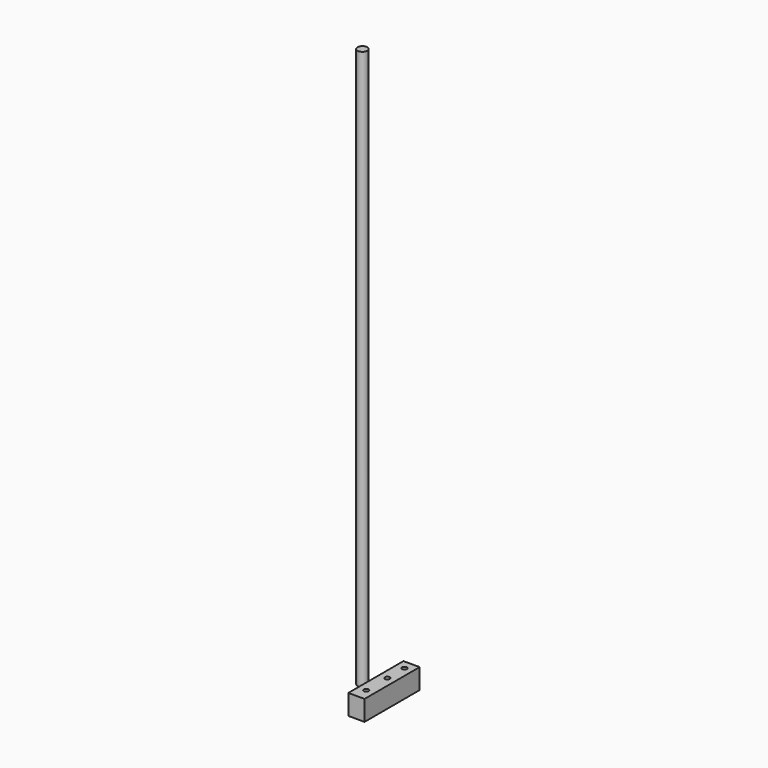
from build123d import *

# Parameters (mm, degrees)
F0_R           = 6
F1_DEPTH       = 690
F2_W           = 20
F2_H           = 85
F2_R           = 2.5
F2_R_2         = 6
F3_DEPTH       = 25
F4_D           = 6
F4_CBORE_D     = 12
F4_CBORE_DEPTH = 15


with BuildPart() as f1:
    # F0 (on Top) → F1 (new body)
    with BuildSketch(Plane.XY):
        with Locations((-96.1288660765, 38.541328162)):
            Circle(F0_R)
    extrude(amount=F1_DEPTH)


with BuildPart() as f3:
    # F2 (on Top) → F3 (new body)
    with BuildSketch(Plane.XY):
        with Locations((-55.6036287546, 21.1451533437)):
            Rectangle(F2_W, F2_H)
        with Locations((-55.6036287546, -6.2048761174)):
            Circle(F2_R, mode=Mode.SUBTRACT)
        with Locations((-55.6036287546, 26.2951238826)):
            Circle(F2_R, mode=Mode.SUBTRACT)
        with Locations((-55.6036287546, 52.6451533437)):
            Circle(F2_R_2, mode=Mode.SUBTRACT)
        with Locations((-55.6036287546, -6.2048761174)):
            Circle(F2_R)
        with Locations((-55.6036287546, 26.2951238826)):
            Circle(F2_R)
        with Locations((-55.6036287546, 52.6451533437)):
            Circle(F2_R_2)
    extrude(amount=F3_DEPTH)

    # F4 (through all)
    with Locations(Plane(origin=(0, 0, 0), x_dir=(1, 0, 0), z_dir=(0, 0, -1))):
        with Locations((-55.6036287546, -26.2951238826), (-55.6036287546, 6.2048761174), (-55.6036287546, -52.6451533437)):
            CounterBoreHole(F4_D / 2, F4_CBORE_D / 2, F4_CBORE_DEPTH)


solid = Compound([f1.part, f3.part])
